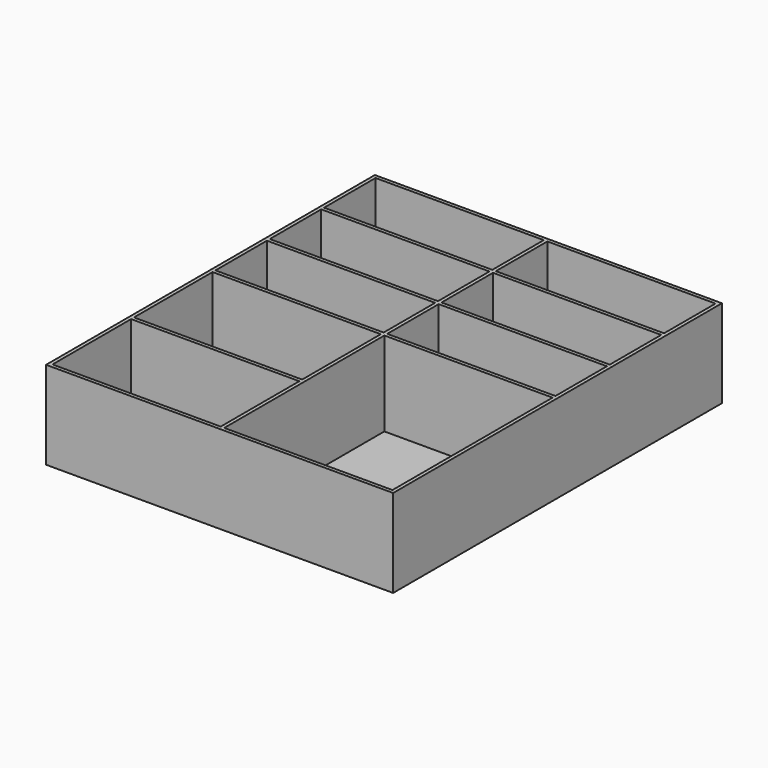
from build123d import *

# Parameters (mm, degrees)
F0_W     = 97.8
F0_H     = 115.8
F1_DEPTH = 24.8
F2_W     = 47.4
F2_H     = 27.7
F2_H_2   = 56.4
F2_H_3   = 18.133334
F2_H_4   = 18.133333
F3_DEPTH = 23.8


with BuildPart() as f1:
    # F0 (on Top) → F1 (new body)
    with BuildSketch(Plane.XY):
        with Locations((-2.762959, -1.491597)):
            Rectangle(F0_W, F0_H)
        with Locations((-2.762959, -1.491597)):
            Rectangle(F0_W, F0_H)
    extrude(amount=F1_DEPTH)

    # F2 (on face) → F3 (cut)
    with BuildSketch(Plane.XY.offset(24.8)):
        with Locations((-26.962959, -44.541597)):
            Rectangle(F2_W, F2_H)
        with Locations((-26.962959, -15.841597)):
            Rectangle(F2_W, F2_H)
        with Locations((21.437041, -30.191597)):
            Rectangle(F2_W, F2_H_2)
        with Locations((21.437041, 8.07507)):
            Rectangle(F2_W, F2_H_3)
        with Locations((-26.962959, 8.07507)):
            Rectangle(F2_W, F2_H_3)
        with Locations((-26.962959, 27.208403)):
            Rectangle(F2_W, F2_H_4)
        with Locations((21.437041, 27.208403)):
            Rectangle(F2_W, F2_H_4)
        with Locations((21.437041, 46.341736)):
            Rectangle(F2_W, F2_H_4)
        with Locations((-26.962959, 46.341736)):
            Rectangle(F2_W, F2_H_4)
    extrude(amount=-F3_DEPTH, mode=Mode.SUBTRACT)


solid = f1.part
